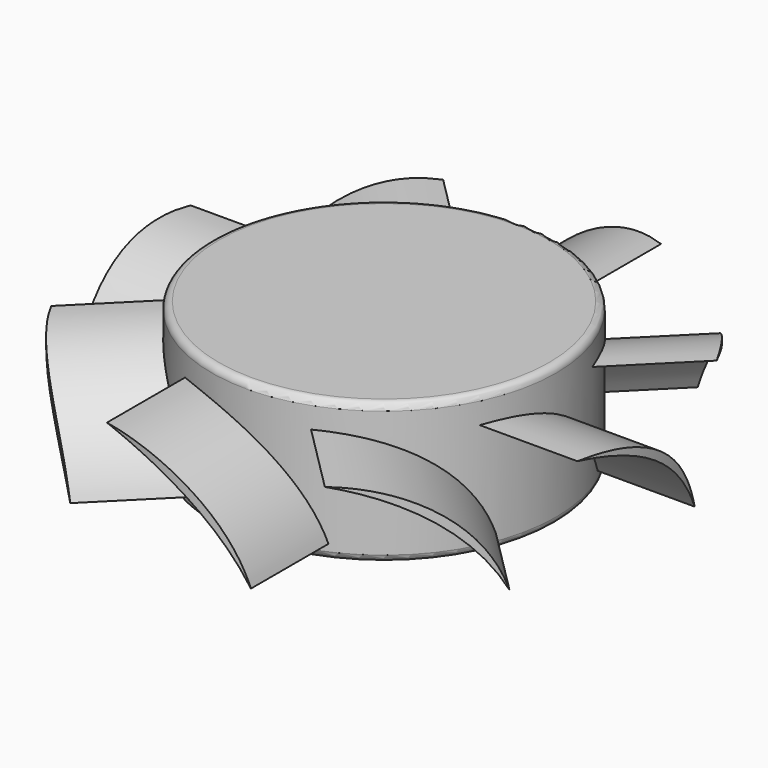
from build123d import *

# Parameters (mm, degrees)
SKETCH069_R           = 12.25
PAD033_DEPTH          = 10
FILLET031_R           = 0.5
PAD023_DEPTH          = 7.5
SKETCH079_R           = 32.89
SKETCH079_R_2         = 18.75
POCKET022_DEPTH       = 94.210561
POLARPATTERN008_COUNT = 8


with BuildPart() as part:
    # Sketch069 → Pad033 (new body)
    with BuildSketch(Plane.XY):
        Circle(SKETCH069_R)
    extrude(amount=PAD033_DEPTH)

    # Fillet031
    fillet031_edges = [part.edges().sort_by_distance(p)[0] for p in [
        (-12.25, 0, 10),
        (-12.25, 0, 0),
    ]]
    fillet(fillet031_edges, radius=FILLET031_R)

    # Sketch062 (on DatumPlane) → Pad023 (join, symmetric)
    with BuildSketch(Plane(origin=(0, 13, -2), x_dir=(1, 0, 0), z_dir=(0, -1, 0))):
        with BuildLine():
            ThreePointArc((5.3, 10), (-1.072659, 8.299055), (-5, 3))
            ThreePointArc((5.3, 10), (-0.742753, 7.813623), (-5, 3))
        make_face()
    pad023 = extrude(amount=PAD023_DEPTH, both=True)

    # Sketch079 (on Face7 of Pad023) → Pocket022 (cut, through all)
    with BuildSketch(Plane.XY.offset(10)):
        Circle(SKETCH079_R)
        Circle(SKETCH079_R_2, mode=Mode.SUBTRACT)
    pocket022 = extrude(amount=-POCKET022_DEPTH, mode=Mode.SUBTRACT)

    # PolarPattern008: Pad023, Pocket022 ×8 about axis
    polarpattern008_axis = Axis((0, 0, 0), (0, 0, 1))
    for i in range(1, POLARPATTERN008_COUNT):
        add(pad023.rotate(polarpattern008_axis, i * 360 / POLARPATTERN008_COUNT))
        add(pocket022.rotate(polarpattern008_axis, i * 360 / POLARPATTERN008_COUNT), mode=Mode.SUBTRACT)


solid = part.part
